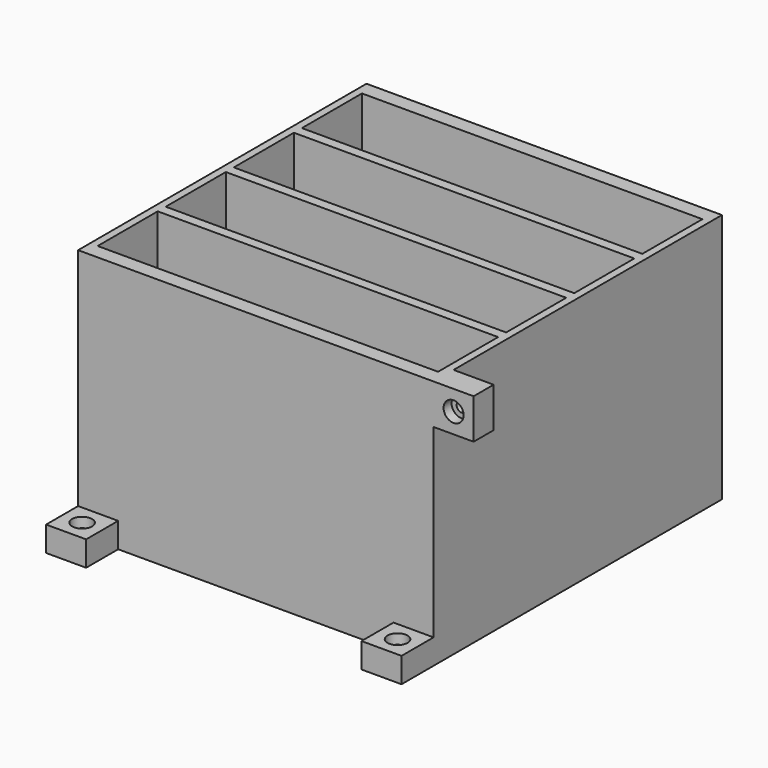
from build123d import *

# Parameters (mm, degrees)
SKETCH_W        = 142
SKETCH_H        = 144
PAD_DEPTH       = 100
SKETCH001_W     = 136
SKETCH001_H     = 30
POCKET_DEPTH    = 95
SKETCH002_W     = 10
SKETCH002_H     = 16
PAD001_DEPTH    = 16
SKETCH003_R     = 4
POCKET001_DEPTH = 4
SKETCH004_R     = 2
POCKET002_DEPTH = 6
SKETCH005_W     = 16
SKETCH005_H     = 10
PAD002_DEPTH    = 16
SKETCH006_R     = 4
POCKET003_DEPTH = 4
SKETCH007_R     = 2
POCKET004_DEPTH = 6
POCKET005_DEPTH = 22
SKETCH009_W     = 10
SKETCH009_H     = 16
PAD003_DEPTH    = 16
SKETCH010_R     = 4
POCKET006_DEPTH = 4
SKETCH011_R     = 2
POCKET007_DEPTH = 6


with BuildPart() as part:
    # Sketch → Pad (new body)
    with BuildSketch(Plane.XY):
        with Locations((71, 72)):
            Rectangle(SKETCH_W, SKETCH_H)
    extrude(amount=PAD_DEPTH)

    # Sketch001 (on Face6 of Pad) → Pocket (cut)
    with BuildSketch(Plane.XY.offset(100)):
        with Locations((71, 123)):
            Rectangle(SKETCH001_W, SKETCH001_H)
        with Locations((71, 89)):
            Rectangle(SKETCH001_W, SKETCH001_H)
        with Locations((71, 55)):
            Rectangle(SKETCH001_W, SKETCH001_H)
        with Locations((71, 21)):
            Rectangle(SKETCH001_W, SKETCH001_H)
    extrude(amount=-POCKET_DEPTH, mode=Mode.SUBTRACT)

    # Sketch002 (on Face1 of Pocket) → Pad001 (join)
    with BuildSketch(Plane(origin=(0, 144, 0), x_dir=(-1, 0, 0), z_dir=(0, 1, 0))):
        with Locations((-5, 32)):
            Rectangle(SKETCH002_W, SKETCH002_H)
    extrude(amount=PAD001_DEPTH)

    # Sketch003 (on Face10 of Pad001) → Pocket001 (cut)
    with BuildSketch(Plane(origin=(0, 0, 0), x_dir=(0, -1, 0), z_dir=(-1, 0, 0))):
        with Locations((-152, 32)):
            Circle(SKETCH003_R)
    extrude(amount=-POCKET001_DEPTH, mode=Mode.SUBTRACT)

    # Sketch004 (on Face33 of Pocket001) → Pocket002 (cut)
    with BuildSketch(Plane(origin=(4, 0, 0), x_dir=(0, -1, 0), z_dir=(-1, 0, 0))):
        with Locations((-152, 32)):
            Circle(SKETCH004_R)
    extrude(amount=-POCKET002_DEPTH, mode=Mode.SUBTRACT)

    # Sketch005 (on Face4 of Pocket002) → Pad002 (join)
    with BuildSketch(Plane.XZ):
        with Locations((8, 5)):
            Rectangle(SKETCH005_W, SKETCH005_H)
        with Locations((134, 5)):
            Rectangle(SKETCH005_W, SKETCH005_H)
    extrude(amount=PAD002_DEPTH)

    # Sketch006 (on Face38 of Pad002) → Pocket003 (cut)
    with BuildSketch(Plane.XY.offset(10)):
        with Locations((8, -8)):
            Circle(SKETCH006_R)
        with Locations((134, -8)):
            Circle(SKETCH006_R)
    extrude(amount=-POCKET003_DEPTH, mode=Mode.SUBTRACT)

    # Sketch007 (on Face48 of Pocket003) → Pocket004 (cut)
    with BuildSketch(Plane.XY.offset(6)):
        with Locations((8, -8)):
            Circle(SKETCH007_R)
        with Locations((134, -8)):
            Circle(SKETCH007_R)
    extrude(amount=-POCKET004_DEPTH, mode=Mode.SUBTRACT)

    # Sketch008 (on Face5 of Pocket004) → Pocket005 (cut)
    with BuildSketch(Plane(origin=(0, 0, 0), x_dir=(0, -1, 0), z_dir=(-1, 0, 0))):
        Polygon((-144, 6), (-144, 0), (-138, 0), align=None)
    extrude(amount=-POCKET005_DEPTH, mode=Mode.SUBTRACT)

    # Sketch009 (on Face3 of Pocket005) → Pad003 (join)
    with BuildSketch(Plane.YZ.offset(142)):
        with Locations((5, 92)):
            Rectangle(SKETCH009_W, SKETCH009_H)
    extrude(amount=PAD003_DEPTH)

    # Sketch010 (on Face42 of Pad003) → Pocket006 (cut)
    with BuildSketch(Plane.XZ):
        with Locations((150, 92)):
            Circle(SKETCH010_R)
    extrude(amount=-POCKET006_DEPTH, mode=Mode.SUBTRACT)

    # Sketch011 (on Face59 of Pocket006) → Pocket007 (cut)
    with BuildSketch(Plane.XZ.offset(-4)):
        with Locations((150, 92)):
            Circle(SKETCH011_R)
    extrude(amount=-POCKET007_DEPTH, mode=Mode.SUBTRACT)


solid = part.part
